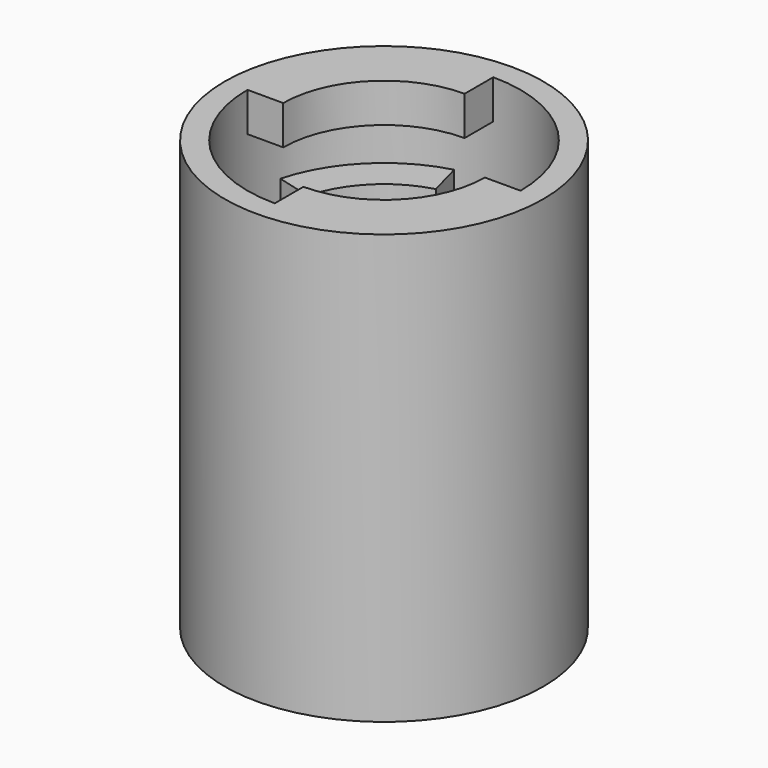
from build123d import *

# Parameters (mm, degrees)
SKETCH_R           = 12.25
SKETCH_R_2         = 2
PAD_DEPTH          = 3
SKETCH001_R        = 12.25
SKETCH001_R_2      = 10.5
PAD001_DEPTH       = 30
PAD002_DEPTH       = 3
POLARPATTERN_COUNT = 2
PAD003_DEPTH       = 23
CHAMFER_SIZE       = 2


with BuildPart() as part:
    # Sketch → Pad (new body)
    with BuildSketch(Plane.XY):
        Circle(SKETCH_R)
        Circle(SKETCH_R_2, mode=Mode.SUBTRACT)
    extrude(amount=-PAD_DEPTH)

    # Sketch001 → Pad001 (join)
    with BuildSketch(Plane.XY):
        Circle(SKETCH001_R)
        Circle(SKETCH001_R_2, mode=Mode.SUBTRACT)
    extrude(amount=PAD001_DEPTH)

    # Sketch002 → Pad002 (join)
    with BuildSketch(Plane.XY.offset(30)):
        with BuildLine():
            ThreePointArc((0, 7.75), (-5.480078, 5.480078), (-7.75, 0))
            Line((-12.25, 0), (-7.75, 0))
            ThreePointArc((0, 12.25), (-8.662058, 8.662058), (-12.25, 0))
            Line((0, 7.75), (0, 12.25))
        make_face()
    pad002 = extrude(amount=-PAD002_DEPTH)

    # PolarPattern: Pad002 ×2 about axis
    polarpattern_axis = Axis((0, 0, 30), (0, 0, 1))
    for i in range(1, POLARPATTERN_COUNT):
        add(pad002.rotate(polarpattern_axis, i * 360 / POLARPATTERN_COUNT))

    # Sketch003 (on DatumPlane) → Pad003 (join)
    with BuildSketch(Plane.XY.offset(23)):
        with BuildLine():
            ThreePointArc((-3.170533, 11.832591), (-8.662058, 8.662058), (-11.832591, 3.170533))
            Line((-7.485925, 2.005848), (-11.832591, 3.170533))
            ThreePointArc((-2.005848, 7.485925), (-5.480078, 5.480078), (-7.485925, 2.005848))
            Line((-3.170533, 11.832591), (-2.005848, 7.485925))
        make_face()
    extrude(amount=-PAD003_DEPTH)

    # Chamfer
    chamfer_edges = [part.edges().sort_by_distance(p)[0] for p in [
        (-2, 0, -3),
    ]]
    chamfer(chamfer_edges, length=CHAMFER_SIZE)


solid = part.part
